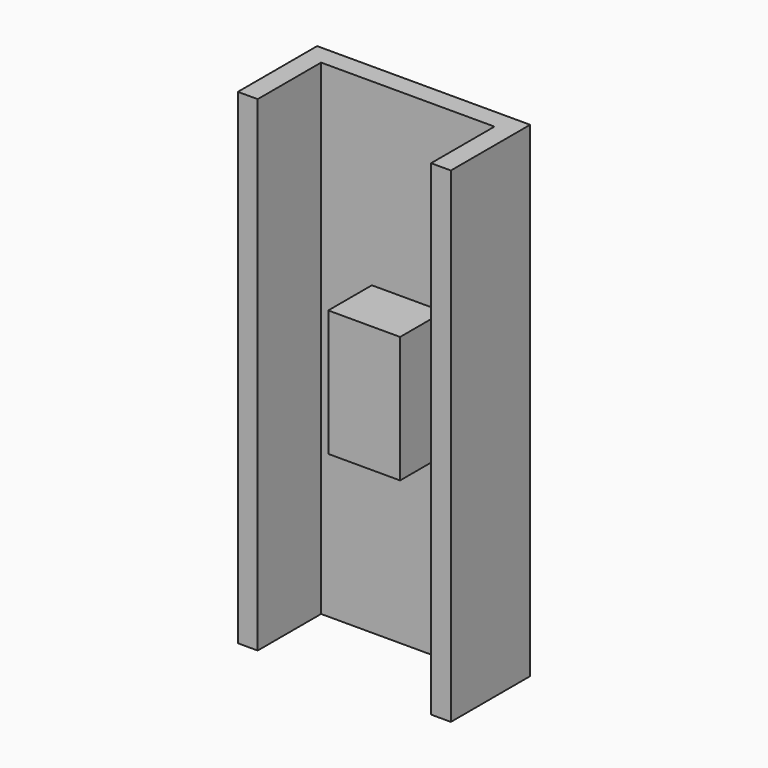
from build123d import *

# Parameters (mm, degrees)
F0_W     = 44.45
F0_H     = 124.46
F0_W_2   = 18.415
F0_H_2   = 32.385
F1_DEPTH = 5.08
F0_W_3   = 5.08
F2_DEPTH = 25.4
F3_DEPTH = 19.05


with BuildPart() as f1:
    # F0 (on Front) → F1 (new body)
    with BuildSketch(Plane.XZ):
        with Locations((5.507742, 0.507997)):
            Rectangle(F0_W, F0_H)
        with Locations((5.507742, 0.507997)):
            Rectangle(F0_W_2, F0_H_2, mode=Mode.SUBTRACT)
    extrude(amount=F1_DEPTH)

    # F0 (on Front) → F2 (join)
    with BuildSketch(Plane.XZ):
        with Locations((30.272742, 0.507997)):
            Rectangle(F0_W_3, F0_H)
        with Locations((-19.257258, 0.507997)):
            Rectangle(F0_W_3, F0_H)
    extrude(amount=F2_DEPTH)

    # F0 (on Front) → F3 (join)
    with BuildSketch(Plane.XZ):
        with Locations((5.507742, 0.507997)):
            Rectangle(F0_W_2, F0_H_2)
    extrude(amount=F3_DEPTH)


solid = f1.part
